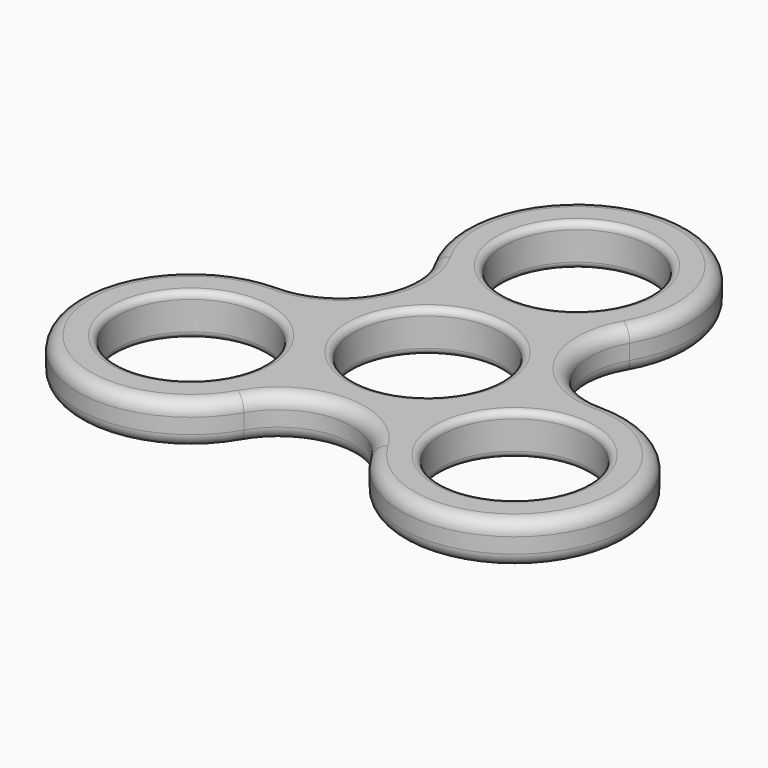
from build123d import *

# Parameters (mm, degrees)
F0_R     = 11.1
F1_DEPTH = 6.3
F2_R     = 2
F3_R     = 1


with BuildPart() as f1:
    # F0 (on Top) → F1 (new body)
    with BuildSketch(Plane.XY):
        with BuildLine():
            ThreePointArc((24.421916, 3), (14.809034, 8.55), (14.809034, 19.65))
            ThreePointArc((14.809034, 19.65), (0, 45.3), (-14.809034, 19.65))
            ThreePointArc((-14.809034, 19.65), (-14.809034, 8.55), (-24.421916, 3))
            ThreePointArc((-24.421916, 3), (-39.230951, -22.65), (-9.612882, -22.65))
            ThreePointArc((-9.612882, -22.65), (0, -17.1), (9.612882, -22.65))
            ThreePointArc((9.612882, -22.65), (39.230951, -22.65), (24.421916, 3))
        make_face()
        with Locations((-24.421916, -14.1)):
            Circle(F0_R, mode=Mode.SUBTRACT)
        Circle(F0_R, mode=Mode.SUBTRACT)
        with Locations((24.421916, -14.1)):
            Circle(F0_R, mode=Mode.SUBTRACT)
        with Locations((0, 28.2)):
            Circle(F0_R, mode=Mode.SUBTRACT)
    extrude(amount=F1_DEPTH)

    # F2
    f2_edges = [f1.edges().sort_by_distance(p)[0] for p in [
        (-14.809034, 8.55, 6.3),
        (-39.230951, -22.65, 0),
    ]]
    fillet(f2_edges, radius=F2_R)

    # F3
    f3_edges = [f1.edges().sort_by_distance(p)[0] for p in [
        (-35.521916, -14.1, 0),
        (-11.1, 0, 0),
        (13.321916, -14.1, 0),
        (-11.1, 28.2, 0),
        (-11.1, 0, 6.3),
        (13.321916, -14.1, 6.3),
        (-11.1, 28.2, 6.3),
        (-35.521916, -14.1, 6.3),
    ]]
    fillet(f3_edges, radius=F3_R)


solid = f1.part
